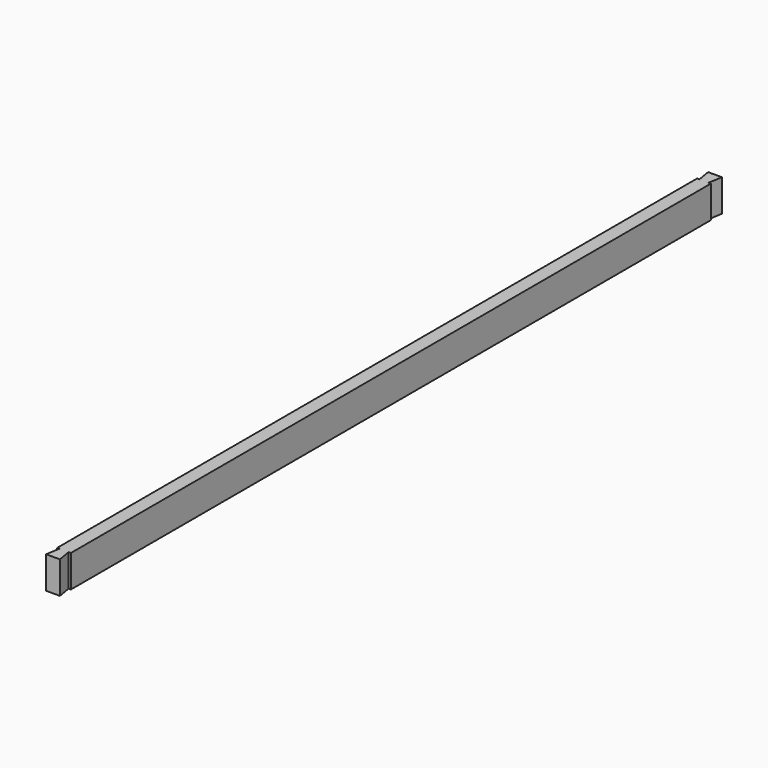
from build123d import *

# Parameters (mm, degrees)
F0_W     = 38.1
F0_H     = 88.9
F1_DEPTH = 2209.8
F3_DEPTH = 88.9


with BuildPart() as f1:
    # F0 (on Front) → F1 (new body)
    with BuildSketch(Plane.XZ):
        with Locations((19.05, 44.45)):
            Rectangle(F0_W, F0_H)
    extrude(amount=F1_DEPTH)

    # F2 (on face) → F3 (join, through all)
    with BuildSketch(Plane.XY.offset(88.9)):
        Polygon((0, 38.1), (6.35, 0), (31.75, 0), (38.1, 38.1), align=None)
        Polygon((31.75, -2209.8), (6.35, -2209.8), (0, -2247.9), (38.1, -2247.9), align=None)
    extrude(amount=-F3_DEPTH)


solid = f1.part
